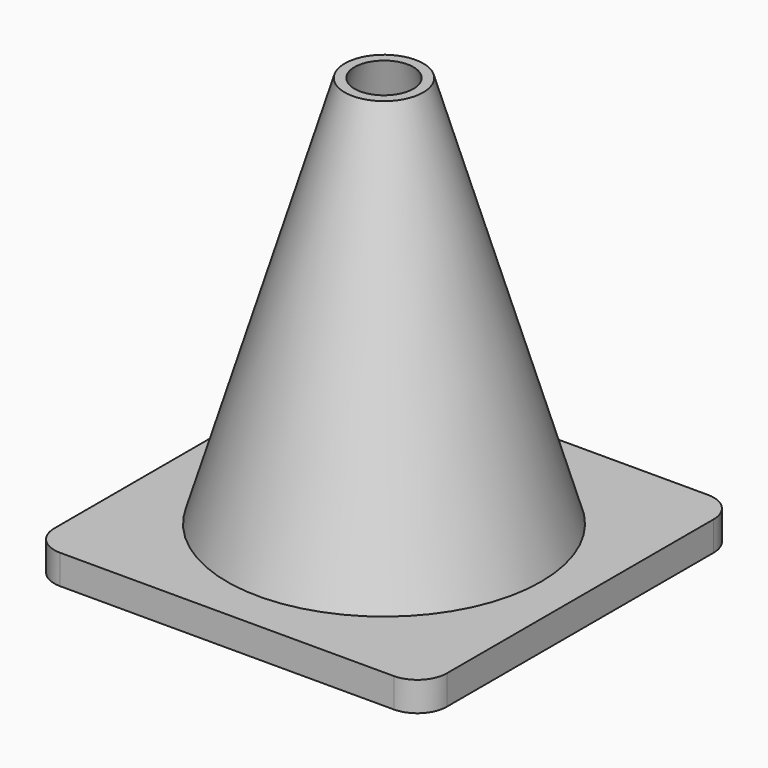
from build123d import *

# Parameters (mm, degrees)
CYLINDER_R     = 14
CYLINDER_DEPTH = 3
BOX_W          = 40
BOX_H          = 40
BOX_DEPTH      = 3
FILLET_R       = 3


with BuildPart() as con001:
    # Cone001 → Cone001 (revolve)
    with BuildSketch(Plane.XZ):
        Polygon((0, 0), (14, 0), (3, 40), (0, 40), align=None)
    revolve(axis=Axis((0, 0, 0), (0, 0, 1)))


with BuildPart() as cut:
    # Cone → Cone (revolve)
    with BuildSketch(Plane.XZ):
        Polygon((0, 0), (16, 0), (4, 40), (0, 40), align=None)
    revolve(axis=Axis((0, 0, 0), (0, 0, 1)))

    # Cut: cut Con001
    add(con001.part, mode=Mode.SUBTRACT)


with BuildPart() as cilindre:
    # Cylinder → Cylinder (new body)
    with BuildSketch(Plane.XY.offset(-3)):
        Circle(CYLINDER_R)
    extrude(amount=CYLINDER_DEPTH)


with BuildPart() as fillet_body:
    # Box → Box (new body)
    with BuildSketch(Plane(origin=(-20, -20, -3), x_dir=(1, 0, 0), z_dir=(0, 0, 1))):
        with Locations((20, 20)):
            Rectangle(BOX_W, BOX_H)
    extrude(amount=BOX_DEPTH)

    # Cut001: cut Cilindre
    add(cilindre.part, mode=Mode.SUBTRACT)

    # Fillet
    fillet_edges = [fillet_body.edges().sort_by_distance(p)[0] for p in [
        (-20, -20, -1.5),
        (-20, 20, -1.5),
        (20, -20, -1.5),
        (20, 20, -1.5),
    ]]
    fillet(fillet_edges, radius=FILLET_R)


solid = Compound([cut.part, fillet_body.part])
